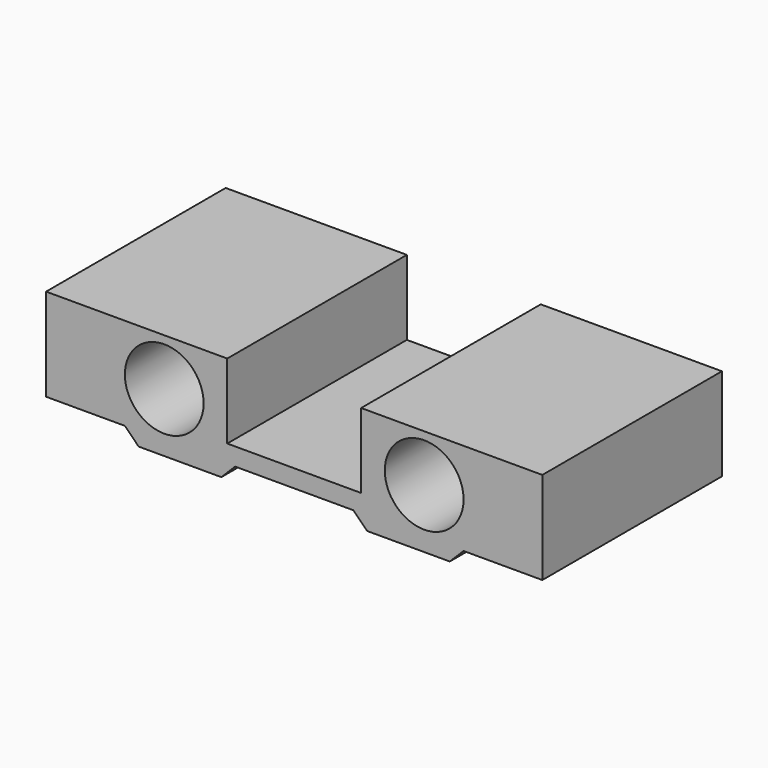
from build123d import *

# Parameters (mm, degrees)
BOX006_W                   = 3
BOX006_H                   = 5.7
BOX006_DEPTH               = 0.35
BOX007_W                   = 2
BOX007_H                   = 5.7
BOX007_DEPTH               = 0.35
BOX005_W                   = 2
BOX005_H                   = 5.7
BOX005_DEPTH               = 0.35
EXTRUDE001_DEPTH           = 5.7
EXTRUDE002_DEPTH           = 5.7
EXTRUDE002_PLACEMENT_ANGLE = 90
EXTRUDE003_DEPTH           = 5.7
EXTRUDE003_PLACEMENT_ANGLE = 90
EXTRUDE_DEPTH              = 5.7
CYLINDER001_R              = 1
CYLINDER001_DEPTH          = 10
CYLINDER_R                 = 1
CYLINDER_DEPTH             = 10
BOX_W                      = 3.4
BOX_H                      = 5.7
BOX_DEPTH                  = 1.9
BOX001_W                   = 12.6
BOX001_H                   = 5.7
BOX001_DEPTH               = 2.7


with BuildPart() as cube006:
    # Box006 → Box006 (new body)
    with BuildSketch(Plane(origin=(4.8, 0, 0), x_dir=(1, 0, 0), z_dir=(0, 0, 1))):
        with Locations((1.5, 2.85)):
            Rectangle(BOX006_W, BOX006_H)
    extrude(amount=BOX006_DEPTH)


with BuildPart() as cube007:
    # Box007 → Box007 (new body)
    with BuildSketch(Plane(origin=(10.6, 0, 0), x_dir=(1, 0, 0), z_dir=(0, 0, 1))):
        with Locations((1, 2.85)):
            Rectangle(BOX007_W, BOX007_H)
    extrude(amount=BOX007_DEPTH)


with BuildPart() as cube005:
    # Box005 → Box005 (new body)
    with BuildSketch(Plane.XY):
        with Locations((1, 2.85)):
            Rectangle(BOX005_W, BOX005_H)
    extrude(amount=BOX005_DEPTH)


with BuildPart() as extrude001:
    # Sketch001 → Extrude001 (new body)
    with BuildSketch(Plane.XZ):
        Polygon((0, 0), (0, 0.35), (0.35, 0), align=None)
    extrude(amount=-EXTRUDE001_DEPTH)


with BuildPart() as extrude001_1:
    # Extrude001 placement: moved
    add(extrude001.part.moved(Location((7.8, 0, 0))))


with BuildPart() as extrude002:
    # Sketch002 → Extrude002 (new body)
    with BuildSketch(Plane.XZ):
        Polygon((0, 0), (0, 0.35), (0.35, 0), align=None)
    extrude(amount=-EXTRUDE002_DEPTH)


with BuildPart() as extrude002_1:
    # Extrude002 placement: moved
    add(extrude002.part.moved(Location((4.8, 0, 0))).rotate(Axis((4.8, 0, 0), (0, -1, 0)), EXTRUDE002_PLACEMENT_ANGLE))


with BuildPart() as extrude003:
    # Sketch003 → Extrude003 (new body)
    with BuildSketch(Plane.XZ):
        Polygon((0, 0), (0, 0.35), (0.35, 0), align=None)
    extrude(amount=-EXTRUDE003_DEPTH)


with BuildPart() as extrude003_1:
    # Extrude003 placement: moved
    add(extrude003.part.moved(Location((10.6, 0, 0))).rotate(Axis((10.6, 0, 0), (0, -1, 0)), EXTRUDE003_PLACEMENT_ANGLE))


with BuildPart() as extrude_body:
    # Sketch → Extrude (new body)
    with BuildSketch(Plane.XZ):
        Polygon((0, 0), (0, 0.35), (0.35, 0), align=None)
    extrude(amount=-EXTRUDE_DEPTH)


with BuildPart() as extrude_body_1:
    # Extrude placement: moved
    add(extrude_body.part.moved(Location((2, 0, 0))))


with BuildPart() as cylinder001:
    # Cylinder001 → Cylinder001 (new body)
    with BuildSketch(Plane(origin=(9.6, -2, 1.5), x_dir=(1, 0, 0), z_dir=(0, 1, 0))):
        Circle(CYLINDER001_R)
    extrude(amount=CYLINDER001_DEPTH)


with BuildPart() as cylinder:
    # Cylinder → Cylinder (new body)
    with BuildSketch(Plane(origin=(3, -2, 1.5), x_dir=(1, 0, 0), z_dir=(0, 1, 0))):
        Circle(CYLINDER_R)
    extrude(amount=CYLINDER_DEPTH)


with BuildPart() as cube:
    # Box → Box (new body)
    with BuildSketch(Plane(origin=(4.6, 0, 0.8), x_dir=(1, 0, 0), z_dir=(0, 0, 1))):
        with Locations((1.7, 2.85)):
            Rectangle(BOX_W, BOX_H)
    extrude(amount=BOX_DEPTH)


with BuildPart() as cut011:
    # Box001 → Box001 (new body)
    with BuildSketch(Plane.XY):
        with Locations((6.3, 2.85)):
            Rectangle(BOX001_W, BOX001_H)
    extrude(amount=BOX001_DEPTH)

    # Cut002: cut Cube
    add(cube.part, mode=Mode.SUBTRACT)

    # Cut003: cut Cylinder
    add(cylinder.part, mode=Mode.SUBTRACT)

    # Cut004: cut Cylinder001
    add(cylinder001.part, mode=Mode.SUBTRACT)

    # Cut005: cut Extrude body
    add(extrude_body_1.part, mode=Mode.SUBTRACT)

    # Cut006: cut Extrude003
    add(extrude003_1.part, mode=Mode.SUBTRACT)

    # Cut007: cut Extrude002
    add(extrude002_1.part, mode=Mode.SUBTRACT)

    # Cut008: cut Extrude001
    add(extrude001_1.part, mode=Mode.SUBTRACT)

    # Cut009: cut Cube005
    add(cube005.part, mode=Mode.SUBTRACT)

    # Cut010: cut Cube007
    add(cube007.part, mode=Mode.SUBTRACT)

    # Cut011: cut Cube006
    add(cube006.part, mode=Mode.SUBTRACT)


solid = cut011.part
